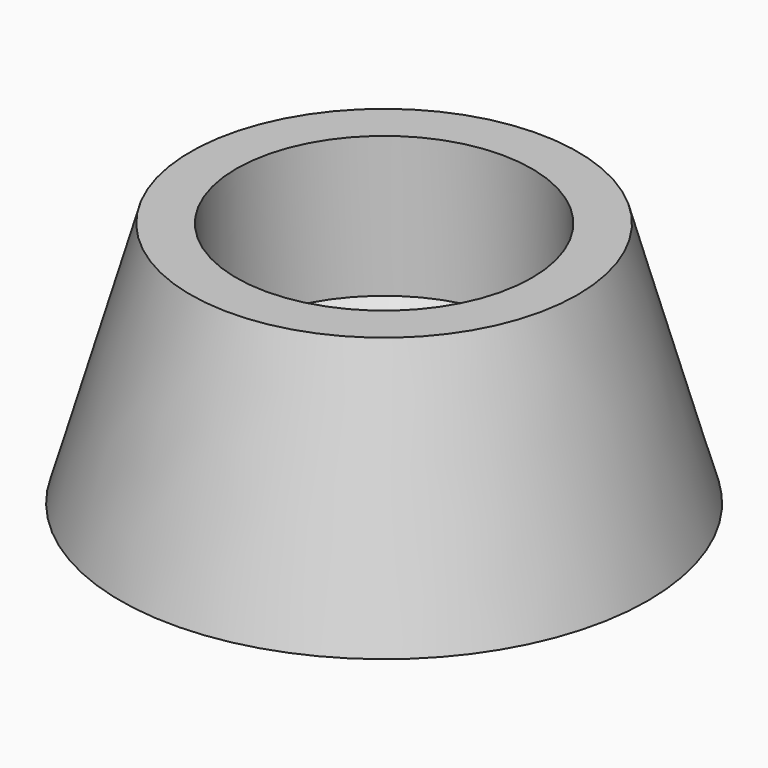
from build123d import *

# Parameters (mm, degrees)
F0_R     = 37.5
F2_R     = 27.5
F4_D     = 42
F4_DEPTH = 20
F4_TIP   = 12.6180729996


with BuildPart() as f3:
    # F0 (on Top) → F3 section 0
    with BuildSketch(Plane.XY):
        Circle(F0_R)
    # F2 (on offset) → F3 section 1
    with BuildSketch(Plane.XY.offset(35)):
        Circle(F2_R)
    loft()

    # F4
    with Locations(Plane.XY.offset(35)):
        with Locations((0, 0)):
            Hole(F4_D / 2, depth=F4_DEPTH)
            with Locations((0, 0, -(F4_DEPTH + F4_TIP / 2))):  # 118° drill point
                Cone(0, F4_D / 2, F4_TIP, mode=Mode.SUBTRACT)


solid = f3.part
